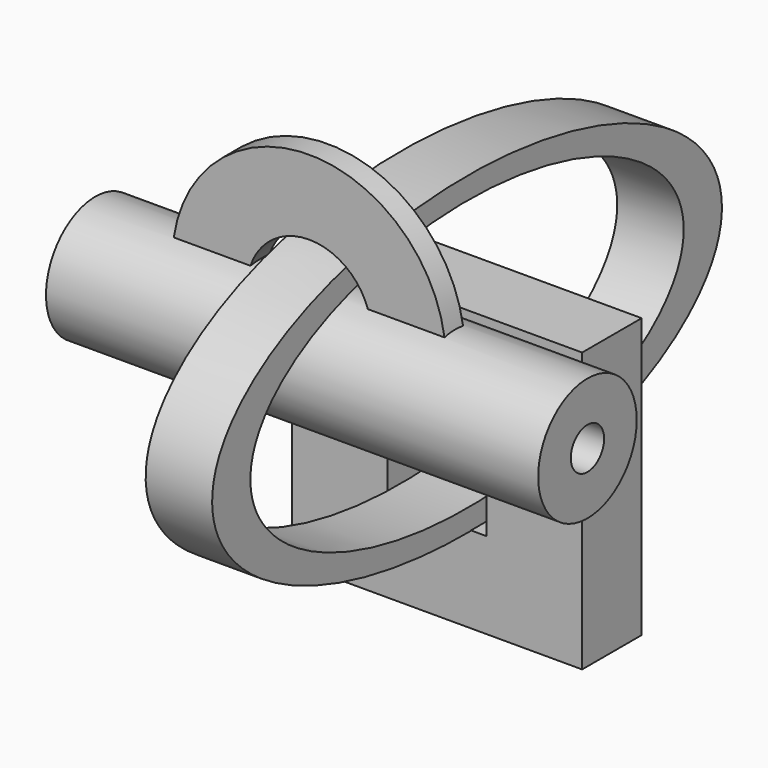
from build123d import *

# Parameters (mm, degrees)
F0_W          = 58.4684867455
F0_H          = 56.2313273549
F0_W_2        = 19.9926165287
F0_H_2        = 21.461814642
F1_DEPTH      = 15
F3_START      = -22
F3_DEPTH      = 13.4
F2_R          = 12.4144011898
F2_R_2        = 4.1998064772
F4_DEPTH      = 25
F4_DEPTH_BACK = 74.2
F6_START      = 42.4
F6_DEPTH      = 4.7


with BuildPart() as f1:
    # F0 (on Front) → F1 (new body)
    with BuildSketch(Plane.XZ):
        with Locations((-28.8240257651, -35.3383217007)):
            Rectangle(F0_W, F0_H)
        with Locations((-28.8240257651, -35.3383217007)):
            Rectangle(F0_W_2, F0_H_2, mode=Mode.SUBTRACT)
    extrude(amount=F1_DEPTH)

    # F2 (on Right) → F3 (join)
    with BuildSketch(Plane.YZ.offset(F3_START)):
        with BuildLine():
            add(Edge.make_bspline(
                [(48.2305826326, -14.4539853781), (48.2305826326, 40.448520655), (-48.0936503822, 12.9972676384), (-144.4178833971, -14.4539853781), (-48.0936503822, -41.9052383947), (48.2305826326, -69.3564914113), (48.2305826326, -14.4539853781)],
                knots=[0, 0, 0, 2.0943951024, 2.0943951024, 4.1887902048, 4.1887902048, 6.2831853072, 6.2831853072, 6.2831853072], degree=2, weights=[1, 0.5, 1, 0.5, 1, 0.5, 1]))
        make_face()
        with BuildLine():
            add(Edge.make_bspline(
                [(38.5981590781, -14.4539853781), (38.5981590781, 32.8169113411), (-43.277438605, 9.1814629815), (-125.1530362881, -14.4539853781), (-43.277438605, -38.0894337377), (38.5981590781, -61.7248820973), (38.5981590781, -14.4539853781)],
                knots=[0, 0, 0, 2.0943951024, 2.0943951024, 4.1887902048, 4.1887902048, 6.2831853072, 6.2831853072, 6.2831853072], degree=2, weights=[1, 0.5, 1, 0.5, 1, 0.5, 1]))
        make_face(mode=Mode.SUBTRACT)
    extrude(amount=-F3_DEPTH)



with BuildPart() as f4:
    # F2 (on Right) → F4 (new body, two sides)
    with BuildSketch(Plane.YZ) as f4_sk:
        with Locations((-44.3970719813, -4.2847092263)):
            Circle(F2_R)
        with Locations((-44.3970719813, -4.2847092263)):
            Circle(F2_R_2, mode=Mode.SUBTRACT)
    extrude(amount=F4_DEPTH)
    extrude(f4_sk.sketch, amount=-F4_DEPTH_BACK)


with BuildPart() as f1_1:
    add(f1.part)

    add(f4.part)  # F6 merges F4
    # F5 (on Front) → F6 (join)
    with BuildSketch(Plane.XZ.offset(F6_START)):
        with BuildLine():
            ThreePointArc((-40.7975474959, 7.7355672316), (-28.9192202864, 16.3286088343), (-17.054715436, 7.7164926056))
            Line((-17.054715436, 7.7164926056), (-1.6484512016, 7.8265564516))
            ThreePointArc((-1.6484512016, 7.8265564516), (-29.0411817177, 31.4070173638), (-56.2415607274, 7.6049333438))
            Line((-56.2415607274, 7.6049333438), (-40.7975474959, 7.7355672316))
        make_face()
    extrude(amount=F6_DEPTH)


solid = f1_1.part
